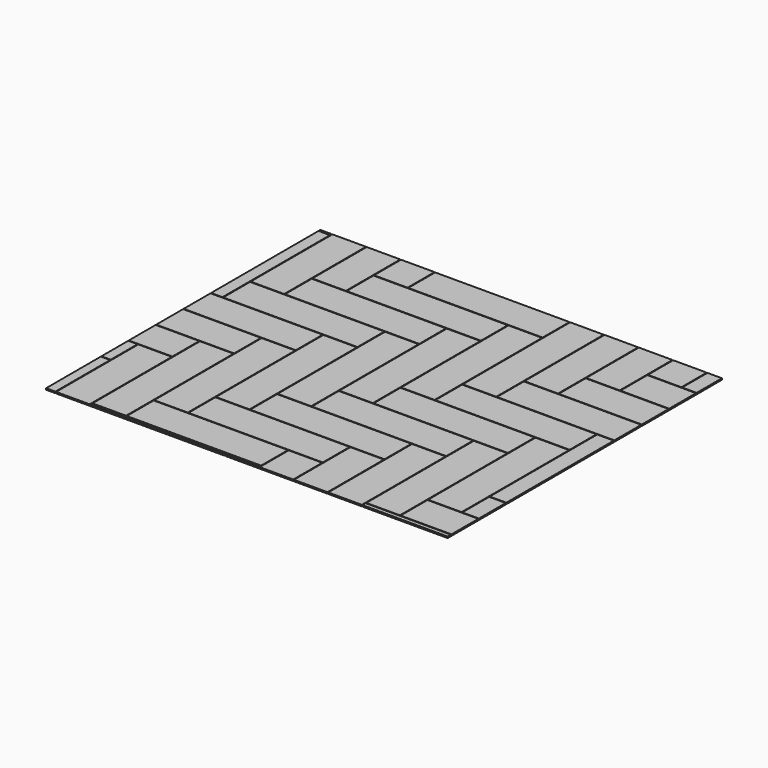
from build123d import *

# Parameters (mm, degrees)
F0_W     = 609.6
F0_H     = 152.4
F0_W_2   = 152.4
F0_H_2   = 609.6
F1_DEPTH = 6.35
F2_W     = 11603.966236
F2_H     = 10077.128291
F2_W_2   = 1822.45
F2_H_2   = 1555.75
F3_DEPTH = 6.351


with BuildPart() as f1:
    # F0 (on Top) → F1 (new body)
    with BuildSketch(Plane.XY):
        with Locations((304.8, 76.2)):
            Rectangle(F0_W, F0_H)
        with Locations((76.2, 460.375)):
            Rectangle(F0_W_2, F0_H_2)
        with Locations((460.375, 231.775)):
            Rectangle(F0_W, F0_H)
        with Locations((231.775, 615.95)):
            Rectangle(F0_W_2, F0_H_2)
        with Locations((-307.975, 688.975)):
            Rectangle(F0_W, F0_H)
        with Locations((-536.575, 1073.15)):
            Rectangle(F0_W_2, F0_H_2)
        with Locations((-152.4, 844.55)):
            Rectangle(F0_W, F0_H)
        with Locations((-381, 1228.725)):
            Rectangle(F0_W_2, F0_H_2)
        with Locations((615.95, 387.35)):
            Rectangle(F0_W, F0_H)
        with Locations((387.35, 771.525)):
            Rectangle(F0_W_2, F0_H_2)
        with Locations((771.525, 542.925)):
            Rectangle(F0_W, F0_H)
        with Locations((542.925, 927.1)):
            Rectangle(F0_W_2, F0_H_2)
        with Locations((3.175, 1000.125)):
            Rectangle(F0_W, F0_H)
        with Locations((-225.425, 1384.3)):
            Rectangle(F0_W_2, F0_H_2)
        with Locations((158.75, 1155.7)):
            Rectangle(F0_W, F0_H)
        with Locations((-69.85, 1539.875)):
            Rectangle(F0_W_2, F0_H_2)
        with Locations((927.1, 698.5)):
            Rectangle(F0_W, F0_H)
        with Locations((698.5, 1082.675)):
            Rectangle(F0_W_2, F0_H_2)
        with Locations((1082.675, 854.075)):
            Rectangle(F0_W, F0_H)
        with Locations((854.075, 1238.25)):
            Rectangle(F0_W_2, F0_H_2)
        with Locations((314.325, 1311.275)):
            Rectangle(F0_W, F0_H)
        with Locations((85.725, 1695.45)):
            Rectangle(F0_W_2, F0_H_2)
        with Locations((469.9, 1466.85)):
            Rectangle(F0_W, F0_H)
        with Locations((241.3, 1851.025)):
            Rectangle(F0_W_2, F0_H_2)
        with Locations((1238.25, 1009.65)):
            Rectangle(F0_W, F0_H)
        with Locations((1009.65, 1393.825)):
            Rectangle(F0_W_2, F0_H_2)
        with Locations((1393.825, 1165.225)):
            Rectangle(F0_W, F0_H)
        with Locations((1165.225, 1549.4)):
            Rectangle(F0_W_2, F0_H_2)
        with Locations((625.475, 1622.425)):
            Rectangle(F0_W, F0_H)
        with Locations((396.875, 2006.6)):
            Rectangle(F0_W_2, F0_H_2)
        with Locations((781.05, 1778)):
            Rectangle(F0_W, F0_H)
        with Locations((552.45, 2162.175)):
            Rectangle(F0_W_2, F0_H_2)
        with Locations((1549.4, 1320.8)):
            Rectangle(F0_W, F0_H)
        with Locations((1320.8, 1704.975)):
            Rectangle(F0_W_2, F0_H_2)
        with Locations((1704.975, 1476.375)):
            Rectangle(F0_W, F0_H)
        with Locations((1476.375, 1860.55)):
            Rectangle(F0_W_2, F0_H_2)
        with Locations((936.625, 1933.575)):
            Rectangle(F0_W, F0_H)
        with Locations((708.025, 2317.75)):
            Rectangle(F0_W_2, F0_H_2)
        with Locations((1092.2, 2089.15)):
            Rectangle(F0_W, F0_H)
        with Locations((863.6, 2473.325)):
            Rectangle(F0_W_2, F0_H_2)
        with Locations((1860.55, 1631.95)):
            Rectangle(F0_W, F0_H)
        with Locations((1631.95, 2016.125)):
            Rectangle(F0_W_2, F0_H_2)
        with Locations((2016.125, 1787.525)):
            Rectangle(F0_W, F0_H)
        with Locations((1787.525, 2171.7)):
            Rectangle(F0_W_2, F0_H_2)
        with Locations((1247.775, 2244.725)):
            Rectangle(F0_W, F0_H)
        with Locations((1019.175, 2628.9)):
            Rectangle(F0_W_2, F0_H_2)
        with Locations((1403.35, 2400.3)):
            Rectangle(F0_W, F0_H)
        with Locations((1174.75, 2784.475)):
            Rectangle(F0_W_2, F0_H_2)
        with Locations((-920.75, 1301.75)):
            Rectangle(F0_W, F0_H)
        with Locations((-1149.35, 1685.925)):
            Rectangle(F0_W_2, F0_H_2)
        with Locations((-765.175, 1457.325)):
            Rectangle(F0_W, F0_H)
        with Locations((-993.775, 1841.5)):
            Rectangle(F0_W_2, F0_H_2)
        with Locations((-1533.525, 1914.525)):
            Rectangle(F0_W, F0_H)
        with Locations((-1762.125, 2298.7)):
            Rectangle(F0_W_2, F0_H_2)
        with Locations((-1377.95, 2070.1)):
            Rectangle(F0_W, F0_H)
        with Locations((-1606.55, 2454.275)):
            Rectangle(F0_W_2, F0_H_2)
        with Locations((-2146.3, 2527.3)):
            Rectangle(F0_W, F0_H)
        with Locations((-2374.9, 2911.475)):
            Rectangle(F0_W_2, F0_H_2)
        with Locations((-1990.725, 2682.875)):
            Rectangle(F0_W, F0_H)
        with Locations((-2219.325, 3067.05)):
            Rectangle(F0_W_2, F0_H_2)
        with Locations((-609.6, 1612.9)):
            Rectangle(F0_W, F0_H)
        with Locations((-838.2, 1997.075)):
            Rectangle(F0_W_2, F0_H_2)
        with Locations((-454.025, 1768.475)):
            Rectangle(F0_W, F0_H)
        with Locations((-682.625, 2152.65)):
            Rectangle(F0_W_2, F0_H_2)
        with Locations((-1222.375, 2225.675)):
            Rectangle(F0_W, F0_H)
        with Locations((-1450.975, 2609.85)):
            Rectangle(F0_W_2, F0_H_2)
        with Locations((-1066.8, 2381.25)):
            Rectangle(F0_W, F0_H)
        with Locations((-1295.4, 2765.425)):
            Rectangle(F0_W_2, F0_H_2)
        with Locations((-1835.15, 2838.45)):
            Rectangle(F0_W, F0_H)
        with Locations((-2063.75, 3222.625)):
            Rectangle(F0_W_2, F0_H_2)
        with Locations((-1679.575, 2994.025)):
            Rectangle(F0_W, F0_H)
        with Locations((-1908.175, 3378.2)):
            Rectangle(F0_W_2, F0_H_2)
        with Locations((-298.45, 1924.05)):
            Rectangle(F0_W, F0_H)
        with Locations((-527.05, 2308.225)):
            Rectangle(F0_W_2, F0_H_2)
        with Locations((-142.875, 2079.625)):
            Rectangle(F0_W, F0_H)
        with Locations((-371.475, 2463.8)):
            Rectangle(F0_W_2, F0_H_2)
        with Locations((-911.225, 2536.825)):
            Rectangle(F0_W, F0_H)
        with Locations((-1139.825, 2921)):
            Rectangle(F0_W_2, F0_H_2)
        with Locations((-755.65, 2692.4)):
            Rectangle(F0_W, F0_H)
        with Locations((-984.25, 3076.575)):
            Rectangle(F0_W_2, F0_H_2)
        with Locations((-1524, 3149.6)):
            Rectangle(F0_W, F0_H)
        with Locations((-1752.6, 3533.775)):
            Rectangle(F0_W_2, F0_H_2)
        with Locations((-1368.425, 3305.175)):
            Rectangle(F0_W, F0_H)
        with Locations((-1597.025, 3689.35)):
            Rectangle(F0_W_2, F0_H_2)
        with Locations((12.7, 2235.2)):
            Rectangle(F0_W, F0_H)
        with Locations((-215.9, 2619.375)):
            Rectangle(F0_W_2, F0_H_2)
        with Locations((168.275, 2390.775)):
            Rectangle(F0_W, F0_H)
        with Locations((-60.325, 2774.95)):
            Rectangle(F0_W_2, F0_H_2)
        with Locations((-600.075, 2847.975)):
            Rectangle(F0_W, F0_H)
        with Locations((-828.675, 3232.15)):
            Rectangle(F0_W_2, F0_H_2)
        with Locations((-444.5, 3003.55)):
            Rectangle(F0_W, F0_H)
        with Locations((-673.1, 3387.725)):
            Rectangle(F0_W_2, F0_H_2)
        with Locations((-1212.85, 3460.75)):
            Rectangle(F0_W, F0_H)
        with Locations((-1441.45, 3844.925)):
            Rectangle(F0_W_2, F0_H_2)
        with Locations((-1057.275, 3616.325)):
            Rectangle(F0_W, F0_H)
        with Locations((-1285.875, 4000.5)):
            Rectangle(F0_W_2, F0_H_2)
        with Locations((323.85, 2546.35)):
            Rectangle(F0_W, F0_H)
        with Locations((95.25, 2930.525)):
            Rectangle(F0_W_2, F0_H_2)
        with Locations((479.425, 2701.925)):
            Rectangle(F0_W, F0_H)
        with Locations((250.825, 3086.1)):
            Rectangle(F0_W_2, F0_H_2)
        with Locations((-288.925, 3159.125)):
            Rectangle(F0_W, F0_H)
        with Locations((-517.525, 3543.3)):
            Rectangle(F0_W_2, F0_H_2)
        with Locations((-133.35, 3314.7)):
            Rectangle(F0_W, F0_H)
        with Locations((-361.95, 3698.875)):
            Rectangle(F0_W_2, F0_H_2)
        with Locations((-901.7, 3771.9)):
            Rectangle(F0_W, F0_H)
        with Locations((-1130.3, 4156.075)):
            Rectangle(F0_W_2, F0_H_2)
        with Locations((-746.125, 3927.475)):
            Rectangle(F0_W, F0_H)
        with Locations((-974.725, 4311.65)):
            Rectangle(F0_W_2, F0_H_2)
        with Locations((635, 2857.5)):
            Rectangle(F0_W, F0_H)
        with Locations((406.4, 3241.675)):
            Rectangle(F0_W_2, F0_H_2)
        with Locations((790.575, 3013.075)):
            Rectangle(F0_W, F0_H)
        with Locations((561.975, 3397.25)):
            Rectangle(F0_W_2, F0_H_2)
        with Locations((22.225, 3470.275)):
            Rectangle(F0_W, F0_H)
        with Locations((-206.375, 3854.45)):
            Rectangle(F0_W_2, F0_H_2)
        with Locations((177.8, 3625.85)):
            Rectangle(F0_W, F0_H)
        with Locations((-50.8, 4010.025)):
            Rectangle(F0_W_2, F0_H_2)
        with Locations((-590.55, 4083.05)):
            Rectangle(F0_W, F0_H)
        with Locations((-819.15, 4467.225)):
            Rectangle(F0_W_2, F0_H_2)
        with Locations((-434.975, 4238.625)):
            Rectangle(F0_W, F0_H)
        with Locations((-663.575, 4622.8)):
            Rectangle(F0_W_2, F0_H_2)
        with Locations((2171.7, 1943.1)):
            Rectangle(F0_W, F0_H)
        with Locations((1943.1, 2327.275)):
            Rectangle(F0_W_2, F0_H_2)
        with Locations((2327.275, 2098.675)):
            Rectangle(F0_W, F0_H)
        with Locations((2098.675, 2482.85)):
            Rectangle(F0_W_2, F0_H_2)
        with Locations((1558.925, 2555.875)):
            Rectangle(F0_W, F0_H)
        with Locations((1330.325, 2940.05)):
            Rectangle(F0_W_2, F0_H_2)
        with Locations((1714.5, 2711.45)):
            Rectangle(F0_W, F0_H)
        with Locations((1485.9, 3095.625)):
            Rectangle(F0_W_2, F0_H_2)
        with Locations((946.15, 3168.65)):
            Rectangle(F0_W, F0_H)
        with Locations((717.55, 3552.825)):
            Rectangle(F0_W_2, F0_H_2)
        with Locations((1101.725, 3324.225)):
            Rectangle(F0_W, F0_H)
        with Locations((873.125, 3708.4)):
            Rectangle(F0_W_2, F0_H_2)
        with Locations((333.375, 3781.425)):
            Rectangle(F0_W, F0_H)
        with Locations((104.775, 4165.6)):
            Rectangle(F0_W_2, F0_H_2)
        with Locations((488.95, 3937)):
            Rectangle(F0_W, F0_H)
        with Locations((260.35, 4321.175)):
            Rectangle(F0_W_2, F0_H_2)
        with Locations((-279.4, 4394.2)):
            Rectangle(F0_W, F0_H)
        with Locations((-508, 4778.375)):
            Rectangle(F0_W_2, F0_H_2)
        with Locations((-123.825, 4549.775)):
            Rectangle(F0_W, F0_H)
        with Locations((-352.425, 4933.95)):
            Rectangle(F0_W_2, F0_H_2)
        with Locations((2482.85, 2254.25)):
            Rectangle(F0_W, F0_H)
        with Locations((2254.25, 2638.425)):
            Rectangle(F0_W_2, F0_H_2)
        with Locations((2638.425, 2409.825)):
            Rectangle(F0_W, F0_H)
        with Locations((2409.825, 2794)):
            Rectangle(F0_W_2, F0_H_2)
        with Locations((1870.075, 2867.025)):
            Rectangle(F0_W, F0_H)
        with Locations((1641.475, 3251.2)):
            Rectangle(F0_W_2, F0_H_2)
        with Locations((2025.65, 3022.6)):
            Rectangle(F0_W, F0_H)
        with Locations((1797.05, 3406.775)):
            Rectangle(F0_W_2, F0_H_2)
        with Locations((1257.3, 3479.8)):
            Rectangle(F0_W, F0_H)
        with Locations((1028.7, 3863.975)):
            Rectangle(F0_W_2, F0_H_2)
        with Locations((1412.875, 3635.375)):
            Rectangle(F0_W, F0_H)
        with Locations((1184.275, 4019.55)):
            Rectangle(F0_W_2, F0_H_2)
        with Locations((644.525, 4092.575)):
            Rectangle(F0_W, F0_H)
        with Locations((415.925, 4476.75)):
            Rectangle(F0_W_2, F0_H_2)
        with Locations((800.1, 4248.15)):
            Rectangle(F0_W, F0_H)
        with Locations((571.5, 4632.325)):
            Rectangle(F0_W_2, F0_H_2)
        with Locations((31.75, 4705.35)):
            Rectangle(F0_W, F0_H)
        with Locations((-196.85, 5089.525)):
            Rectangle(F0_W_2, F0_H_2)
        with Locations((187.325, 4860.925)):
            Rectangle(F0_W, F0_H)
        with Locations((-41.275, 5245.1)):
            Rectangle(F0_W_2, F0_H_2)
        with Locations((2794, 2565.4)):
            Rectangle(F0_W, F0_H)
        with Locations((2565.4, 2949.575)):
            Rectangle(F0_W_2, F0_H_2)
        with Locations((2949.575, 2720.975)):
            Rectangle(F0_W, F0_H)
        with Locations((2720.975, 3105.15)):
            Rectangle(F0_W_2, F0_H_2)
        with Locations((2181.225, 3178.175)):
            Rectangle(F0_W, F0_H)
        with Locations((1952.625, 3562.35)):
            Rectangle(F0_W_2, F0_H_2)
        with Locations((2336.8, 3333.75)):
            Rectangle(F0_W, F0_H)
        with Locations((2108.2, 3717.925)):
            Rectangle(F0_W_2, F0_H_2)
        with Locations((1568.45, 3790.95)):
            Rectangle(F0_W, F0_H)
        with Locations((1339.85, 4175.125)):
            Rectangle(F0_W_2, F0_H_2)
        with Locations((1724.025, 3946.525)):
            Rectangle(F0_W, F0_H)
        with Locations((1495.425, 4330.7)):
            Rectangle(F0_W_2, F0_H_2)
        with Locations((955.675, 4403.725)):
            Rectangle(F0_W, F0_H)
        with Locations((727.075, 4787.9)):
            Rectangle(F0_W_2, F0_H_2)
        with Locations((1111.25, 4559.3)):
            Rectangle(F0_W, F0_H)
        with Locations((882.65, 4943.475)):
            Rectangle(F0_W_2, F0_H_2)
        with Locations((342.9, 5016.5)):
            Rectangle(F0_W, F0_H)
        with Locations((114.3, 5400.675)):
            Rectangle(F0_W_2, F0_H_2)
        with Locations((498.475, 5172.075)):
            Rectangle(F0_W, F0_H)
        with Locations((269.875, 5556.25)):
            Rectangle(F0_W_2, F0_H_2)
    extrude(amount=F1_DEPTH)

    # F2 (on Top) → F3 (cut, through all)
    with BuildSketch(Plane.XY):
        with Locations((985.920668, 3548.839151)):
            Rectangle(F2_W, F2_H)
        with Locations((418.164587, 3080.402087)):
            Rectangle(F2_W_2, F2_H_2, mode=Mode.SUBTRACT)
    extrude(amount=F3_DEPTH, mode=Mode.SUBTRACT)


solid = f1.part
